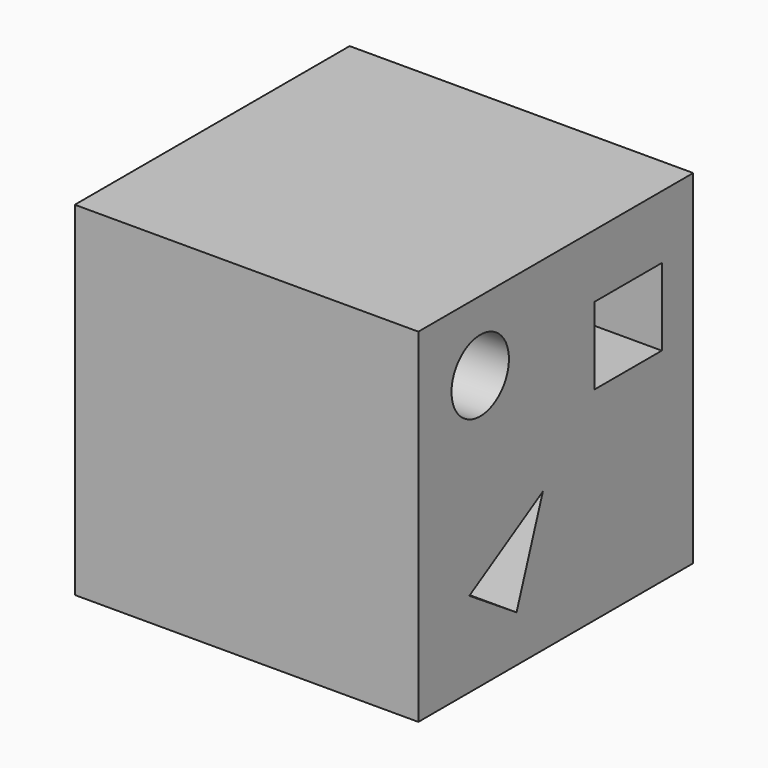
from build123d import *

# Parameters (mm, degrees)
F0_W     = 40
F0_H     = 40
F1_DEPTH = 25
F2_DEPTH = 40
F3_R     = 4.178344
F3_W     = 9.777684
F3_H     = 8.984899
F4_DEPTH = 40.001


with BuildPart() as f1:
    # F0 (on Top) → F1 (new body)
    with BuildSketch(Plane.XY):
        with Locations((-1.321308, 1.88122)):
            Rectangle(F0_W, F0_H)
    extrude(amount=F1_DEPTH)

    # F0 (on Top) → F2 (join)
    with BuildSketch(Plane.XY):
        with Locations((-1.321308, 1.88122)):
            Rectangle(F0_W, F0_H)
    extrude(amount=F2_DEPTH)

    # F3 (on face) → F4 (cut, through all)
    with BuildSketch(Plane.YZ.offset(18.678692)):
        with Locations((-9.117031, 31.843539)):
            Circle(F3_R)
        with Locations((12.420302, 28.143876)):
            Rectangle(F3_W, F3_H)
        Polygon((0, 16.252099), (-10.702601, 9.909815), (-3.831795, 5.417366), align=None)
    extrude(amount=-F4_DEPTH, mode=Mode.SUBTRACT)


solid = f1.part
